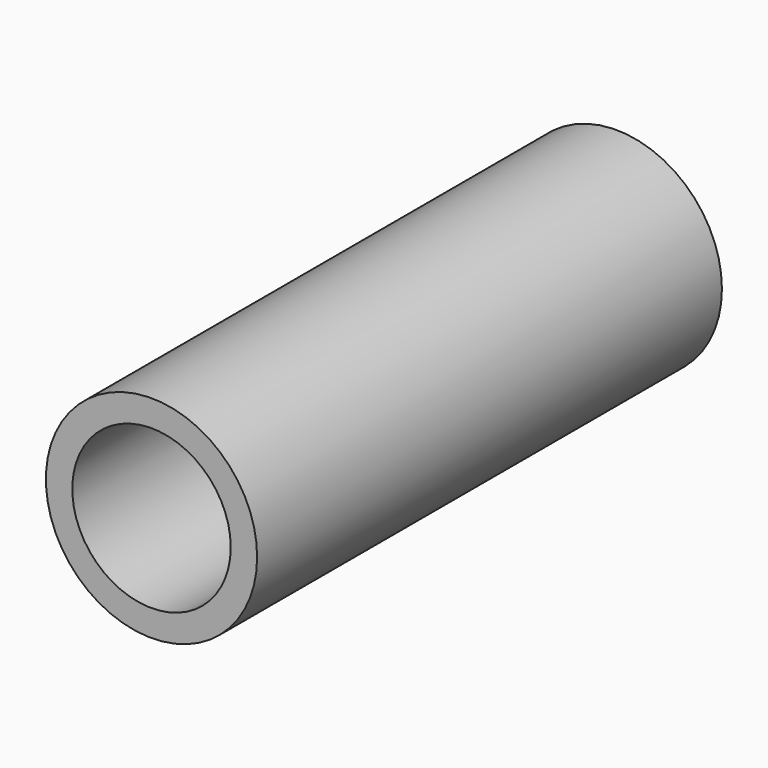
from build123d import *

# Parameters (mm, degrees)
CYLINDER014_R          = 3
CYLINDER014_DEPTH      = 22
CYLINDER014_ROLL_ANGLE = 90
CYLINDER012_R          = 1.15
CYLINDER012_DEPTH      = 6
CYLINDER012_ROLL_ANGLE = 90
CYLINDER011_R          = 4
CYLINDER011_DEPTH      = 22
CYLINDER011_ROLL_ANGLE = 90


with BuildPart() as cylinder014:
    # Cylinder014 → Cylinder014 (new body)
    with BuildSketch(Plane.XY):
        Circle(CYLINDER014_R)
    extrude(amount=CYLINDER014_DEPTH)


with BuildPart() as cylinder014_1:
    # Cylinder014 roll: moved
    add(cylinder014.part.rotate(Axis((0, 0, 0), (1, 0, 0)), CYLINDER014_ROLL_ANGLE))


with BuildPart() as cylinder014_2:
    # Cylinder014 placement: moved
    add(cylinder014_1.part.moved(Location((0, -1, 5))))


with BuildPart() as fusion004:
    # Cylinder012 → Cylinder012 (new body)
    with BuildSketch(Plane.XY):
        Circle(CYLINDER012_R)
    extrude(amount=CYLINDER012_DEPTH)


with BuildPart() as fusion004_1:
    # Cylinder012 roll: moved
    add(fusion004.part.rotate(Axis((0, 0, 0), (1, 0, 0)), CYLINDER012_ROLL_ANGLE))


with BuildPart() as fusion004_2:
    # Cylinder012 placement: moved
    add(fusion004_1.part.moved(Location((0, 5, 5))))

    # Fusion004: union Cylinder014
    add(cylinder014_2.part)


with BuildPart() as cut001:
    # Cylinder011 → Cylinder011 (new body)
    with BuildSketch(Plane.XY):
        Circle(CYLINDER011_R)
    extrude(amount=CYLINDER011_DEPTH)


with BuildPart() as cut001_1:
    # Cylinder011 roll: moved
    add(cut001.part.rotate(Axis((0, 0, 0), (1, 0, 0)), CYLINDER011_ROLL_ANGLE))


with BuildPart() as cut001_2:
    # Cylinder011 placement: moved
    add(cut001_1.part.moved(Location((0, 0, 5))))

    # Cut001: cut Fusion004
    add(fusion004_2.part, mode=Mode.SUBTRACT)


solid = cut001_2.part
